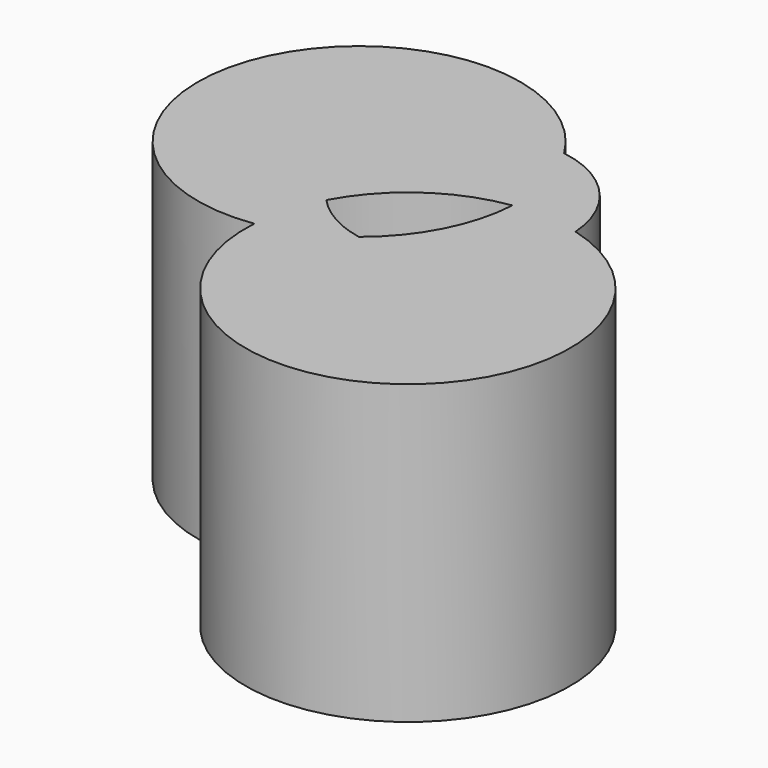
from build123d import *

# Parameters (mm, degrees)
F1_DEPTH = 147.9502767324


with BuildPart() as f1:
    # F0 (on Top) → F1 (new body)
    with BuildSketch(Plane.XY):
        with BuildLine():
            ThreePointArc((-87.9484422868, -78.1952069234), (-228.9705848103, -86.1188770419), (-144.926183088, -199.6378964581))
            ThreePointArc((-144.926183088, -199.6378964581), (-141.9776426647, -182.625293005), (-135.4781136343, -166.6290844149))
            ThreePointArc((-135.4781136343, -166.6290844149), (-143.1221520937, -105.5311323371), (-87.9484422868, -78.1952069234))
        make_face()
        with BuildLine():
            ThreePointArc((-43.1303394705, -130.6995274151), (-43.1637393197, -128.8153342329), (-43.2638969004, -126.9335085352))
            ThreePointArc((-43.2638969004, -126.9335085352), (-59.6405921047, -124.2616153411), (-76.2175991553, -124.9950976526))
            ThreePointArc((-76.2175991553, -124.9950976526), (-85.0850207305, -157.1491742454), (-106.2593539774, -182.9205424373))
            ThreePointArc((-106.2593539774, -182.9205424373), (-62.407597495, -171.6638621544), (-43.1303394705, -130.6995274151))
        make_face()
        with BuildLine():
            ThreePointArc((-135.4781136343, -166.6290844149), (-141.9776426647, -182.625293005), (-144.926183088, -199.6378964581))
            ThreePointArc((-144.926183088, -199.6378964581), (-124.4762204529, -193.8617677231), (-106.2593539774, -182.9205424373))
            ThreePointArc((-106.2593539774, -182.9205424373), (-122.1835688251, -177.1329724297), (-135.4781136343, -166.6290844149))
        make_face()
        with BuildLine():
            ThreePointArc((-76.2175991553, -124.9950976526), (-59.6405921047, -124.2616153411), (-43.2638969004, -126.9335085352))
            ThreePointArc((-43.2638969004, -126.9335085352), (-57.1072322193, -94.7723104014), (-87.9484422868, -78.1952069234))
            ThreePointArc((-87.9484422868, -78.1952069234), (-79.099972808, -98.3765624175), (-76.0744358047, -120.20380795))
            ThreePointArc((-76.0744358047, -120.20380795), (-76.1102346274, -122.6005219901), (-76.2175991553, -124.9950976526))
        make_face()
        with BuildLine():
            ThreePointArc((-135.4781136343, -166.6290844149), (-110.7796966213, -138.7922639194), (-76.2175991553, -124.9950976526))
            ThreePointArc((-76.2175991553, -124.9950976526), (-76.1102346274, -122.6005219901), (-76.0744358047, -120.20380795))
            ThreePointArc((-76.0744358047, -120.20380795), (-79.099972808, -98.3765624175), (-87.9484422868, -78.1952069234))
            ThreePointArc((-87.9484422868, -78.1952069234), (-143.1221520937, -105.5311323371), (-135.4781136343, -166.6290844149))
        make_face()
        with BuildLine():
            ThreePointArc((-144.926183088, -199.6378964581), (-66.9805164151, -285.5076041639), (16.3334276456, -204.835921526))
            ThreePointArc((16.3334276456, -204.835921526), (-0.2745731056, -155.7935239428), (-43.2638969004, -126.9335085352))
            ThreePointArc((-43.2638969004, -126.9335085352), (-43.1637393197, -128.8153342329), (-43.1303394705, -130.6995274151))
            ThreePointArc((-43.1303394705, -130.6995274151), (-62.407597495, -171.6638621544), (-106.2593539774, -182.9205424373))
            ThreePointArc((-106.2593539774, -182.9205424373), (-124.4762204529, -193.8617677231), (-144.926183088, -199.6378964581))
        make_face()
    extrude(amount=F1_DEPTH)


solid = f1.part
